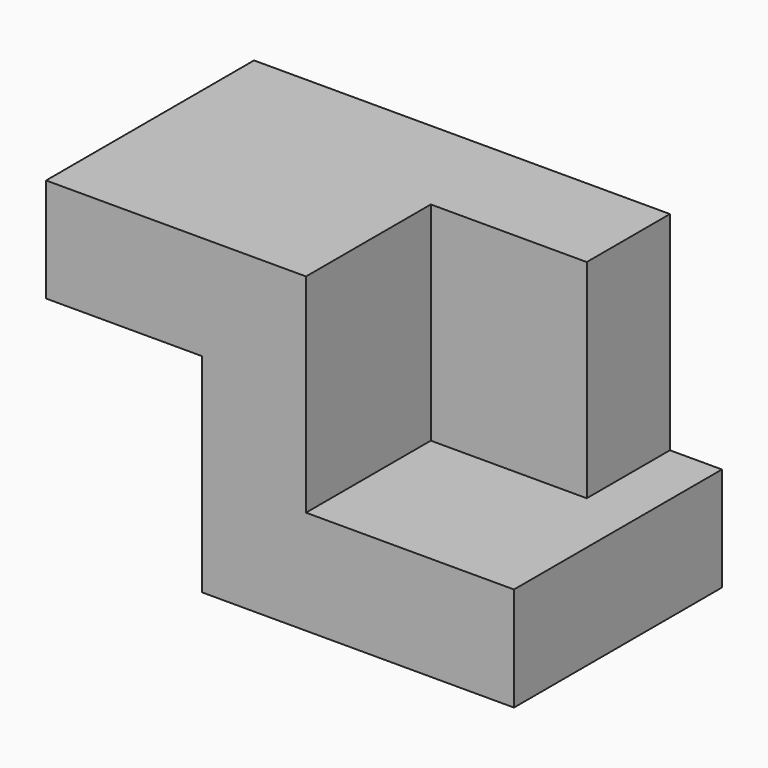
from build123d import *

# Parameters (mm, degrees)
F0_W     = 76.2
F0_H     = 63.5
F1_DEPTH = 25.4
F3_DEPTH = 50.8
F4_W     = 63.5
F4_H     = 25.4
F5_DEPTH = 38.1


with BuildPart() as f1:
    # F0 (on Top) → F1 (new body)
    with BuildSketch(Plane.XY):
        with Locations((-16.094854, 4.158149)):
            Rectangle(F0_W, F0_H)
    extrude(amount=F1_DEPTH)

    # F2 (on face) → F3 (join)
    with BuildSketch(Plane.XY.offset(25.4)):
        Polygon((-54.194854, 35.908149), (-54.194854, -27.591851), (-28.794854, -27.591851), (-28.794854, 10.508149), (9.305146, 10.508149), (9.305146, 35.908149), align=None)
    extrude(amount=F3_DEPTH)

    # F4 (on face) → F5 (join)
    with BuildSketch(Plane(origin=(-54.194854, 0, 0), x_dir=(0, -1, 0), z_dir=(-1, 0, 0))):
        with Locations((-4.158149, 63.5)):
            Rectangle(F4_W, F4_H)
    extrude(amount=F5_DEPTH)


solid = f1.part
